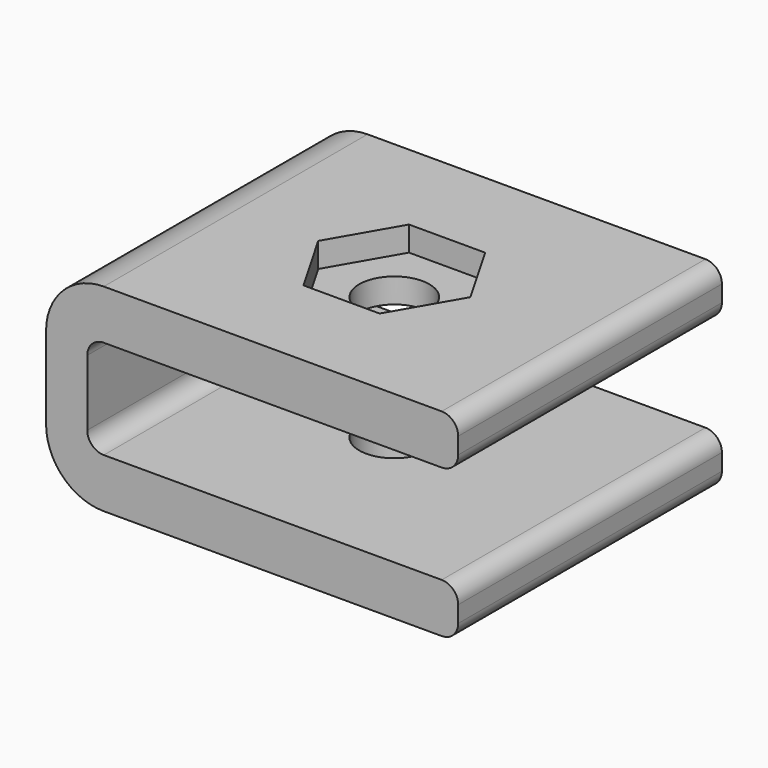
from build123d import *

# Parameters (mm, degrees)
F1_DEPTH = 20
F2_R     = 2.125
F3_DEPTH = 12
F4_R     = 2.125
F5_DEPTH = 1.5
F6_R     = 3.5
F7_R     = 1


with BuildPart() as f1:
    # F0 (on Front) → F1 (new body)
    with BuildSketch(Plane.XZ):
        Polygon((-12.5, 16.5), (-12.5, 11.75), (-12.5, 9.25), (-12.5, 7.5), (-12.5, 4.5), (12.5, 4.5), (12.5, 7.5), (-10, 7.5), (-10, 13.5), (12.5, 13.5), (12.5, 16.5), align=None)
    extrude(amount=F1_DEPTH)

    # F2 (on face) → F3 (cut, through all)
    with BuildSketch(Plane.XY.offset(16.5)):
        with Locations((0.625, -10)):
            Circle(F2_R)
    extrude(amount=-F3_DEPTH, mode=Mode.SUBTRACT)

    # F4 (on face) → F5 (cut)
    with BuildSketch(Plane.XY.offset(16.5)):
        Polygon((2.9344010768, -14), (5.2438021535, -10), (2.9344010768, -6), (-1.6844010768, -6), (-3.9938021535, -10), (-1.6844010768, -14), align=None)
        with Locations((0.625, -10)):
            Circle(F4_R, mode=Mode.SUBTRACT)
    extrude(amount=-F5_DEPTH, mode=Mode.SUBTRACT)

    # F6
    f6_edges = [f1.edges().sort_by_distance(p)[0] for p in [
        (-12.5, -10, 4.5),
        (-12.5, -10, 16.5),
    ]]
    fillet(f6_edges, radius=F6_R)

    # F7
    f7_edges = [f1.edges().sort_by_distance(p)[0] for p in [
        (-10, -10, 13.5),
        (-10, -10, 7.5),
        (12.5, -10, 7.5),
        (12.5, -10, 13.5),
        (-9, -10, 4.5),
        (-9, -10, 16.5),
        (12.5, -10, 4.5),
        (12.5, -10, 16.5),
    ]]
    fillet(f7_edges, radius=F7_R)


solid = f1.part
